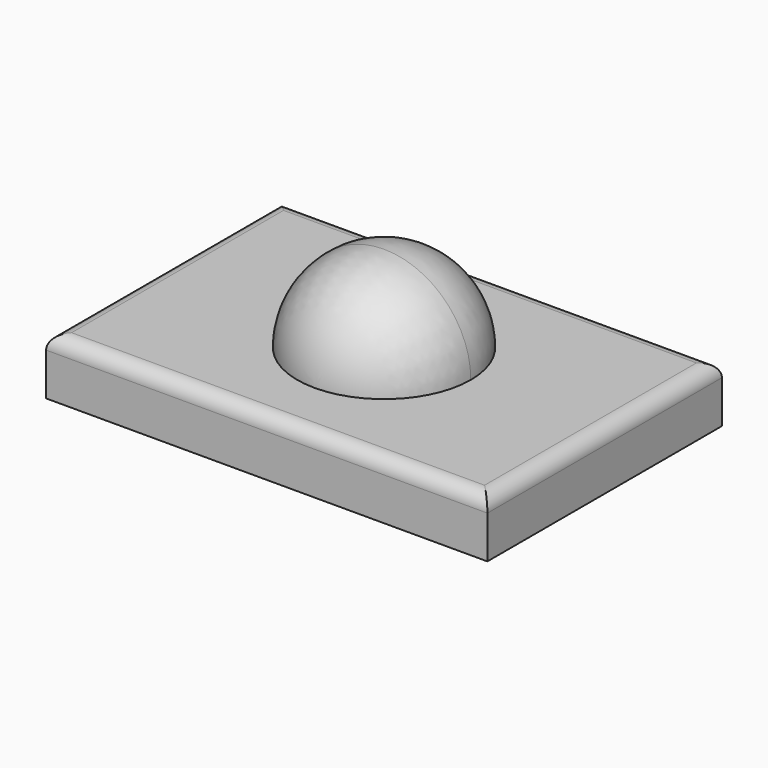
from build123d import *

# Parameters (mm, degrees)
F0_W     = 155.681744
F0_H     = 103.419952
F1_DEPTH = 20
F2_ANGLE = -180
F3_R     = 5


with BuildPart() as f1:
    # F0 (on Top) → F1 (new body)
    with BuildSketch(Plane.XY):
        Rectangle(F0_W, F0_H)
        with BuildLine():
            ThreePointArc((0, 30.621955), (21.652992, 21.652992), (30.621955, 0))
            ThreePointArc((30.621955, 0), (21.652992, -21.652992), (0, -30.621955))
            ThreePointArc((0, -30.621955), (-30.621955, 0), (0, 30.621955))
        make_face(mode=Mode.SUBTRACT)
        with BuildLine():
            Line((0, -30.621955), (0, 30.621955))
            ThreePointArc((0, 30.621955), (-30.621955, 0), (0, -30.621955))
        make_face()
        with BuildLine():
            ThreePointArc((0, -30.621955), (21.652992, -21.652992), (30.621955, 0))
            ThreePointArc((30.621955, 0), (21.652992, 21.652992), (0, 30.621955))
            Line((0, 30.621955), (0, -30.621955))
        make_face()
    extrude(amount=-F1_DEPTH)

    # F0 (on Top) → F2 (revolve)
    with BuildSketch(Plane.XY):
        with BuildLine():
            ThreePointArc((0, -30.621955), (21.652992, -21.652992), (30.621955, 0))
            ThreePointArc((30.621955, 0), (21.652992, 21.652992), (0, 30.621955))
            Line((0, 30.621955), (0, -30.621955))
        make_face()
    revolve(axis=Axis((0, 0, 0), (0, 1, 0)), revolution_arc=F2_ANGLE)

    # F3
    f3_edges = [f1.edges().sort_by_distance(p)[0] for p in [
        (-77.840872, 0, 0),
        (0, -51.709976, 0),
        (77.840872, 0, 0),
        (0, 51.709976, 0),
    ]]
    fillet(f3_edges, radius=F3_R)


solid = f1.part
